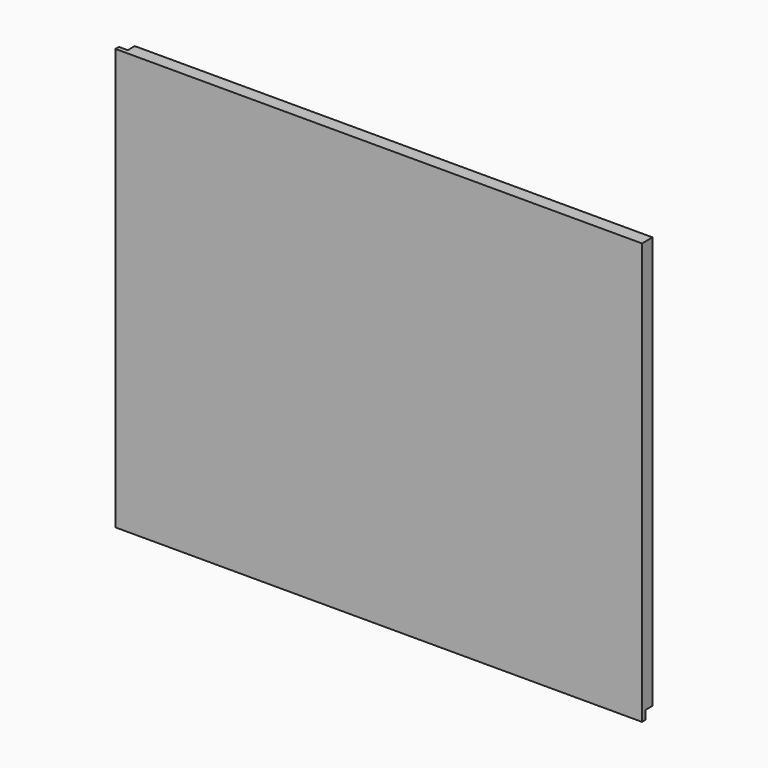
from build123d import *

# Parameters (mm, degrees)
F0_W     = 762
F0_H     = 609.6
F1_DEPTH = 19.05
F2_W     = 12.7
F2_H     = 12.7
F3_DEPTH = 762.001
F4_W     = 12.7
F4_H     = 12.7
F5_DEPTH = 609.601


with BuildPart() as f1:
    # F0 (on Front) → F1 (new body)
    with BuildSketch(Plane.XZ):
        with Locations((381, 304.8)):
            Rectangle(F0_W, F0_H)
        with Locations((381, 304.8)):
            Rectangle(F0_W, F0_H)
    extrude(amount=F1_DEPTH)

    # F2 (on face) → F3 (cut, through all)
    with BuildSketch(Plane.YZ.offset(762)):
        with Locations((-6.35, 6.35)):
            Rectangle(F2_W, F2_H)
    extrude(amount=-F3_DEPTH, mode=Mode.SUBTRACT)

    # F4 (on face) → F5 (cut, through all)
    with BuildSketch(Plane.XY.offset(609.6)):
        with Locations((6.35, -6.35)):
            Rectangle(F4_W, F4_H)
    extrude(amount=-F5_DEPTH, mode=Mode.SUBTRACT)


solid = f1.part
